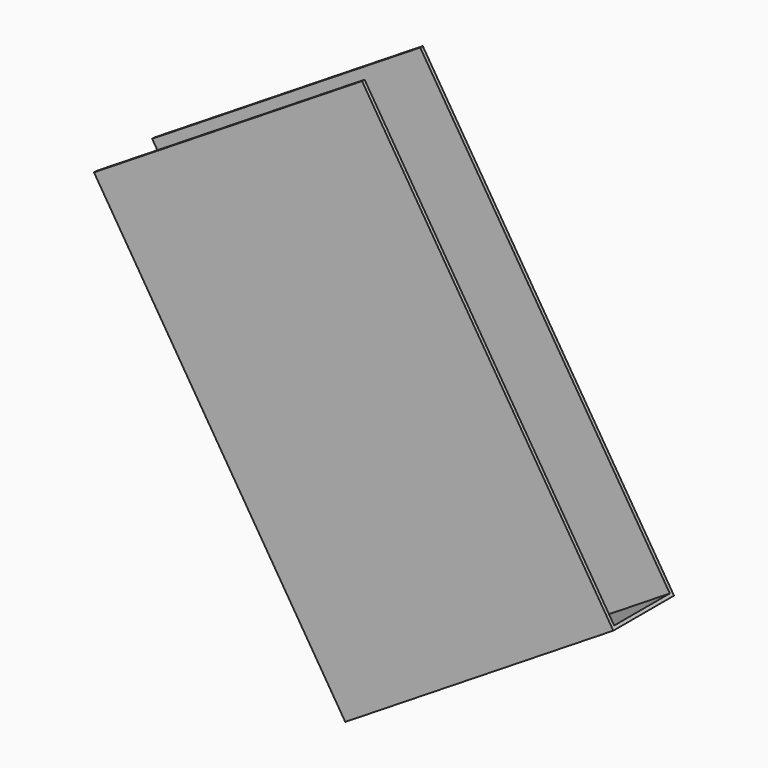
from build123d import *

# Parameters (mm, degrees)
BOX139_W           = 5
BOX139_H           = 7.45
BOX139_DEPTH       = 1.1
BOX138_W           = 5
BOX138_H           = 7.5
BOX138_DEPTH       = 1.2
CUT062_ROLL_ANGLE  = -90
CUT062_PITCH_ANGLE = -32


with BuildPart() as small_cu_gnd_electrode054:
    # Box139 → Box139 (new body)
    with BuildSketch(Plane.XY.offset(0.05)):
        with Locations((2.5, 3.725)):
            Rectangle(BOX139_W, BOX139_H)
    extrude(amount=BOX139_DEPTH)


with BuildPart() as small_cu_electrode001_long_axis_v005:
    # Box138 → Box138 (new body)
    with BuildSketch(Plane.XY):
        with Locations((2.5, 3.75)):
            Rectangle(BOX138_W, BOX138_H)
    extrude(amount=BOX138_DEPTH)

    # Cut062: cut Small Cu GND Electrode054
    add(small_cu_gnd_electrode054.part, mode=Mode.SUBTRACT)


with BuildPart() as small_cu_electrode001_long_axis_v005_1:
    # Cut062 roll: moved
    add(small_cu_electrode001_long_axis_v005.part.rotate(Axis((0, 0, 0), (1, 0, 0)), CUT062_ROLL_ANGLE))


with BuildPart() as small_cu_electrode001_long_axis_v005_2:
    # Cut062 pitch: moved
    add(small_cu_electrode001_long_axis_v005_1.part.rotate(Axis((0, 0, 0), (0, 1, 0)), CUT062_PITCH_ANGLE))


with BuildPart() as small_cu_electrode001_long_axis_v005_3:
    # Cut062 placement: moved
    add(small_cu_electrode001_long_axis_v005_2.part.moved(Location((-9.429562, 2.14, 54.797147))))


solid = small_cu_electrode001_long_axis_v005_3.part
